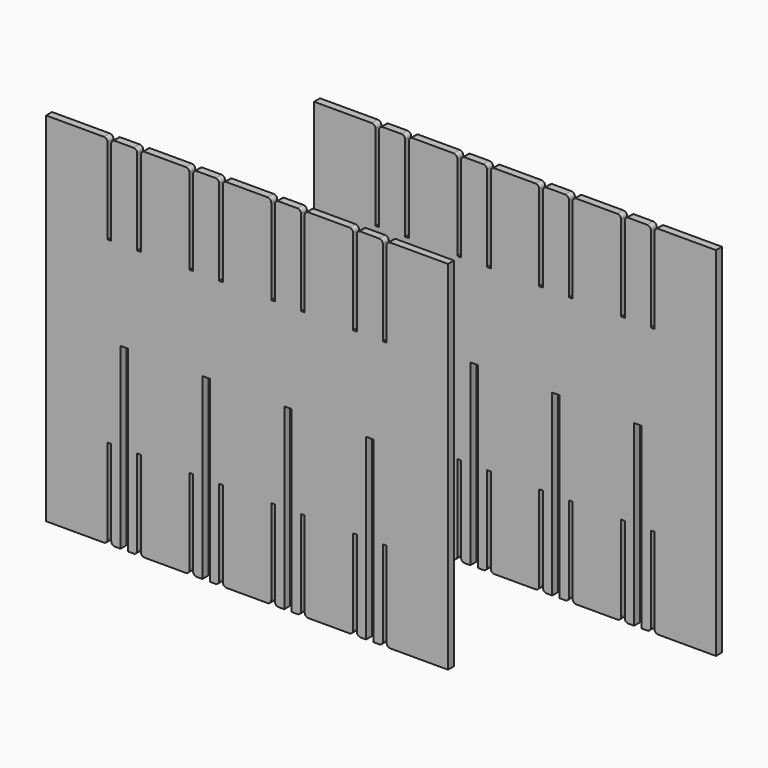
from build123d import *

# Parameters (mm, degrees)
F1_DEPTH = 6.35


with BuildPart() as f1:
    # F0 (on Front) → F1 (new body)
    with BuildSketch(Plane.XZ):
        with BuildLine():
            Line((171.45, 88.640816), (171.45, 164.840816))
            Line((171.45, 164.840816), (122.2248, 164.840816))
            ThreePointArc((122.2248, 164.840816), (119.979736, 163.91088), (119.0498, 161.665816))
            Line((119.0498, 161.665816), (119.0498, 88.640816))
            Line((119.0498, 88.640816), (171.45, 88.640816))
        make_face()
        with BuildLine():
            Line((171.45, -139.959184), (171.45, 88.640816))
            Line((171.45, 88.640816), (119.0498, 88.640816))
            Line((119.0498, 88.640816), (115.8748, 88.640816))
            Line((115.8748, 88.640816), (93.6752, 88.640816))
            Line((93.6752, 88.640816), (90.5002, 88.640816))
            Line((90.5002, 88.640816), (49.1998, 88.640816))
            Line((49.1998, 88.640816), (46.0248, 88.640816))
            Line((46.0248, 88.640816), (23.8252, 88.640816))
            Line((23.8252, 88.640816), (20.6502, 88.640816))
            Line((20.6502, 88.640816), (-20.6502, 88.640816))
            Line((-20.6502, 88.640816), (-23.8252, 88.640816))
            Line((-23.8252, 88.640816), (-46.0248, 88.640816))
            Line((-46.0248, 88.640816), (-49.1998, 88.640816))
            Line((-49.1998, 88.640816), (-90.5002, 88.640816))
            Line((-90.5002, 88.640816), (-93.6752, 88.640816))
            Line((-93.6752, 88.640816), (-93.6752, 161.665816))
            ThreePointArc((-93.6752, 161.665816), (-94.605136, 163.91088), (-96.8502, 164.840816))
            Line((-96.8502, 164.840816), (-112.6998, 164.840816))
            ThreePointArc((-112.6998, 164.840816), (-114.944864, 163.91088), (-115.8748, 161.665816))
            Line((-115.8748, 161.665816), (-115.8748, 88.640816))
            Line((-115.8748, 88.640816), (-119.0498, 88.640816))
            Line((-119.0498, 88.640816), (-119.0498, 161.665816))
            ThreePointArc((-119.0498, 161.665816), (-119.979736, 163.91088), (-122.2248, 164.840816))
            Line((-122.2248, 164.840816), (-171.45, 164.840816))
            Line((-171.45, 164.840816), (-171.45, -139.959184))
            Line((-171.45, -139.959184), (-122.2248, -139.959184))
            ThreePointArc((-122.2248, -139.959184), (-119.979736, -139.029248), (-119.0498, -136.784184))
            Line((-119.0498, -136.784184), (-119.0498, -63.759184))
            Line((-119.0498, -63.759184), (-115.8748, -63.759184))
            Line((-115.8748, -63.759184), (-115.8748, -136.784184))
            ThreePointArc((-115.8748, -136.784184), (-114.944864, -139.029248), (-112.6998, -139.959184))
            Line((-112.6998, -139.959184), (-107.95, -139.959184))
            Line((-107.95, -139.959184), (-107.95, 12.440816))
            Line((-107.95, 12.440816), (-101.6, 12.440816))
            Line((-101.6, 12.440816), (-101.6, -139.959184))
            Line((-101.6, -139.959184), (-96.8502, -139.959184))
            ThreePointArc((-96.8502, -139.959184), (-94.605136, -139.029248), (-93.6752, -136.784184))
            Line((-93.6752, -136.784184), (-93.6752, -63.759184))
            Line((-93.6752, -63.759184), (-90.5002, -63.759184))
            Line((-90.5002, -63.759184), (-90.5002, -136.784184))
            ThreePointArc((-90.5002, -136.784184), (-89.570264, -139.029248), (-87.3252, -139.959184))
            Line((-87.3252, -139.959184), (-52.3748, -139.959184))
            ThreePointArc((-52.3748, -139.959184), (-50.129736, -139.029248), (-49.1998, -136.784184))
            Line((-49.1998, -136.784184), (-49.1998, -63.759184))
            Line((-49.1998, -63.759184), (-46.0248, -63.759184))
            Line((-46.0248, -63.759184), (-46.0248, -136.784184))
            ThreePointArc((-46.0248, -136.784184), (-45.094864, -139.029248), (-42.8498, -139.959184))
            Line((-42.8498, -139.959184), (-38.1, -139.959184))
            Line((-38.1, -139.959184), (-38.1, 12.508575))
            Line((-38.1, 12.508575), (-31.75, 12.508575))
            Line((-31.75, 12.508575), (-31.75, -139.959184))
            Line((-31.75, -139.959184), (-27.0002, -139.959184))
            ThreePointArc((-27.0002, -139.959184), (-24.755136, -139.029248), (-23.8252, -136.784184))
            Line((-23.8252, -136.784184), (-23.8252, -63.759184))
            Line((-23.8252, -63.759184), (-20.6502, -63.759184))
            Line((-20.6502, -63.759184), (-20.6502, -136.784184))
            ThreePointArc((-20.6502, -136.784184), (-19.720264, -139.029248), (-17.4752, -139.959184))
            Line((-17.4752, -139.959184), (17.4752, -139.959184))
            ThreePointArc((17.4752, -139.959184), (19.720264, -139.029248), (20.6502, -136.784184))
            Line((20.6502, -136.784184), (20.6502, -63.759184))
            Line((20.6502, -63.759184), (23.8252, -63.759184))
            Line((23.8252, -63.759184), (23.8252, -136.784184))
            ThreePointArc((23.8252, -136.784184), (24.755136, -139.029248), (27.0002, -139.959184))
            Line((27.0002, -139.959184), (31.75, -139.959184))
            Line((31.75, -139.959184), (31.75, 12.460283))
            Line((31.75, 12.460283), (38.1, 12.460283))
            Line((38.1, 12.460283), (38.1, -139.959184))
            Line((38.1, -139.959184), (42.8498, -139.959184))
            ThreePointArc((42.8498, -139.959184), (45.094864, -139.029248), (46.0248, -136.784184))
            Line((46.0248, -136.784184), (46.0248, -63.759184))
            Line((46.0248, -63.759184), (49.1998, -63.759184))
            Line((49.1998, -63.759184), (49.1998, -136.784184))
            ThreePointArc((49.1998, -136.784184), (50.129736, -139.029248), (52.3748, -139.959184))
            Line((52.3748, -139.959184), (87.3252, -139.959184))
            ThreePointArc((87.3252, -139.959184), (89.570264, -139.029248), (90.5002, -136.784184))
            Line((90.5002, -136.784184), (90.5002, -63.759184))
            Line((90.5002, -63.759184), (93.6752, -63.759184))
            Line((93.6752, -63.759184), (93.6752, -136.784184))
            ThreePointArc((93.6752, -136.784184), (94.605136, -139.029248), (96.8502, -139.959184))
            Line((96.8502, -139.959184), (101.6, -139.959184))
            Line((101.6, -139.959184), (101.6, 12.324625))
            Line((101.6, 12.324625), (107.95, 12.324625))
            Line((107.95, 12.324625), (107.95, -139.959184))
            Line((107.95, -139.959184), (112.6998, -139.959184))
            ThreePointArc((112.6998, -139.959184), (114.944864, -139.029248), (115.8748, -136.784184))
            Line((115.8748, -136.784184), (115.8748, -63.759184))
            Line((115.8748, -63.759184), (119.0498, -63.759184))
            Line((119.0498, -63.759184), (119.0498, -136.784184))
            ThreePointArc((119.0498, -136.784184), (119.979736, -139.029248), (122.2248, -139.959184))
            Line((122.2248, -139.959184), (171.45, -139.959184))
        make_face()
        with BuildLine():
            Line((93.6752, 88.640816), (115.8748, 88.640816))
            Line((115.8748, 88.640816), (115.8748, 161.665816))
            ThreePointArc((115.8748, 161.665816), (114.944864, 163.91088), (112.6998, 164.840816))
            Line((112.6998, 164.840816), (96.8502, 164.840816))
            ThreePointArc((96.8502, 164.840816), (94.605136, 163.91088), (93.6752, 161.665816))
            Line((93.6752, 161.665816), (93.6752, 88.640816))
        make_face()
        with BuildLine():
            Line((49.1998, 88.640816), (90.5002, 88.640816))
            Line((90.5002, 88.640816), (90.5002, 161.665816))
            ThreePointArc((90.5002, 161.665816), (89.570264, 163.91088), (87.3252, 164.840816))
            Line((87.3252, 164.840816), (52.3748, 164.840816))
            ThreePointArc((52.3748, 164.840816), (50.129736, 163.91088), (49.1998, 161.665816))
            Line((49.1998, 161.665816), (49.1998, 88.640816))
        make_face()
        with BuildLine():
            Line((23.8252, 88.640816), (46.0248, 88.640816))
            Line((46.0248, 88.640816), (46.0248, 161.665816))
            ThreePointArc((46.0248, 161.665816), (45.094864, 163.91088), (42.8498, 164.840816))
            Line((42.8498, 164.840816), (27.0002, 164.840816))
            ThreePointArc((27.0002, 164.840816), (24.755136, 163.91088), (23.8252, 161.665816))
            Line((23.8252, 161.665816), (23.8252, 88.640816))
        make_face()
        with BuildLine():
            Line((-20.6502, 88.640816), (20.6502, 88.640816))
            Line((20.6502, 88.640816), (20.6502, 161.665816))
            ThreePointArc((20.6502, 161.665816), (19.720264, 163.91088), (17.4752, 164.840816))
            Line((17.4752, 164.840816), (-17.4752, 164.840816))
            ThreePointArc((-17.4752, 164.840816), (-19.720264, 163.91088), (-20.6502, 161.665816))
            Line((-20.6502, 161.665816), (-20.6502, 88.640816))
        make_face()
        with BuildLine():
            Line((-46.0248, 88.640816), (-23.8252, 88.640816))
            Line((-23.8252, 88.640816), (-23.8252, 161.665816))
            ThreePointArc((-23.8252, 161.665816), (-24.755136, 163.91088), (-27.0002, 164.840816))
            Line((-27.0002, 164.840816), (-42.8498, 164.840816))
            ThreePointArc((-42.8498, 164.840816), (-45.094864, 163.91088), (-46.0248, 161.665816))
            Line((-46.0248, 161.665816), (-46.0248, 88.640816))
        make_face()
        with BuildLine():
            Line((-90.5002, 88.640816), (-49.1998, 88.640816))
            Line((-49.1998, 88.640816), (-49.1998, 161.665816))
            ThreePointArc((-49.1998, 161.665816), (-50.129736, 163.91088), (-52.3748, 164.840816))
            Line((-52.3748, 164.840816), (-87.3252, 164.840816))
            ThreePointArc((-87.3252, 164.840816), (-89.570264, 163.91088), (-90.5002, 161.665816))
            Line((-90.5002, 161.665816), (-90.5002, 88.640816))
        make_face()
    extrude(amount=F1_DEPTH)


with BuildPart() as f2_1:
    # F2: copy of F1
    add(f1.part.moved(Location((127, 127, 0))))


solid = Compound([f1.part, f2_1.part])
